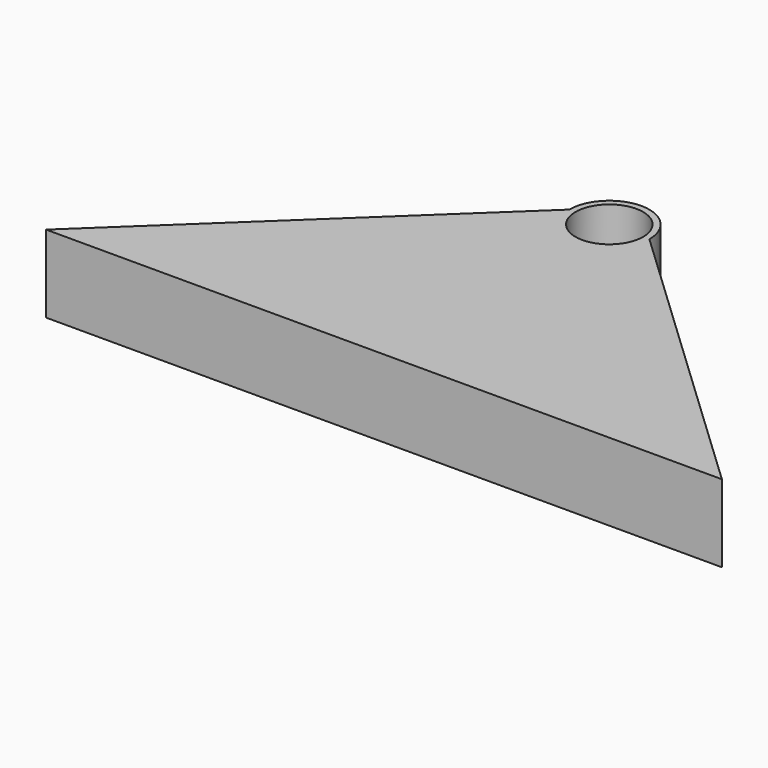
from build123d import *

# Parameters (mm, degrees)
F0_R     = 7.62
F1_DEPTH = 17.4752


with BuildPart() as f1:
    # F0 (on Top) → F1 (new body)
    with BuildSketch(Plane.XY):
        with BuildLine():
            Line((76.2, -63.508051), (9.0424, 0))
            ThreePointArc((9.0424, 0), (0, -9.0424), (-9.0424, 0))
            Line((-9.0424, 0), (-76.2, -63.508051))
            Line((-76.2, -63.508051), (76.2, -63.508051))
        make_face()
        with BuildLine():
            ThreePointArc((-9.0424, 0), (0, -9.0424), (9.0424, 0))
            ThreePointArc((9.0424, 0), (0, 9.0424), (-9.0424, 0))
        make_face()
        Circle(F0_R, mode=Mode.SUBTRACT)
    extrude(amount=F1_DEPTH)


solid = f1.part
